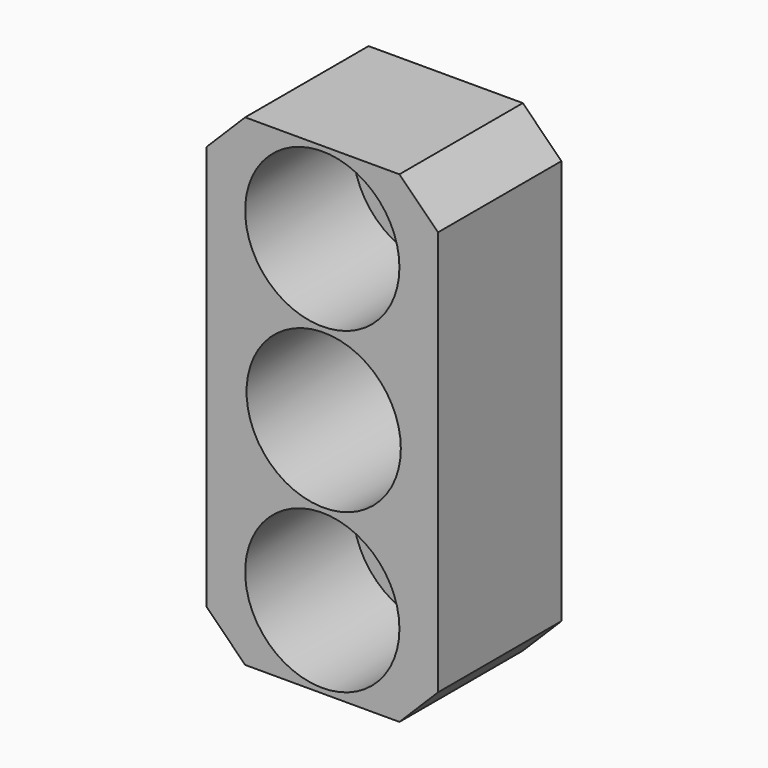
from build123d import *

# Parameters (mm, degrees)
F0_W     = 12
F0_H     = 25
F1_DEPTH = 8
F2_SIZE  = 2
F3_SIZE  = 2
F4_R     = 2.25
F5_DEPTH = 25
F6_R     = 4
F7_DEPTH = 7
F8_R     = 4
F9_DEPTH = 25


with BuildPart() as f1:
    # F0 (on Front) → F1 (new body)
    with BuildSketch(Plane.XZ):
        with Locations((1.81407, 3.270565)):
            Rectangle(F0_W, F0_H)
    extrude(amount=F1_DEPTH)

    # F2
    f2_edges = [f1.edges().sort_by_distance(p)[0] for p in [
        (-4.18593, -4, 15.770565),
    ]]
    chamfer(f2_edges, length=F2_SIZE)

    # F3
    f3_edges = [f1.edges().sort_by_distance(p)[0] for p in [
        (7.81407, -4, 15.770565),
        (7.81407, -4, -9.229435),
        (-4.18593, -4, -9.229435),
    ]]
    chamfer(f3_edges, length=F3_SIZE)

    # F4 (on face) → F5 (cut)
    with BuildSketch(Plane.XZ.offset(8)):
        with Locations((1.81407, -4.979435)):
            Circle(F4_R)
        with Locations((1.81407, 11.520565)):
            Circle(F4_R)
    extrude(amount=-F5_DEPTH, mode=Mode.SUBTRACT)

    # F6 (on face) → F7 (cut)
    with BuildSketch(Plane.XZ.offset(8)):
        with Locations((1.81407, 11.520565)):
            Circle(F6_R)
        with Locations((1.81407, -4.979435)):
            Circle(F6_R)
    extrude(amount=-F7_DEPTH, mode=Mode.SUBTRACT)

    # F8 (on Front) → F9 (cut)
    with BuildSketch(Plane.XZ):
        with Locations((1.887019, 3.270565)):
            Circle(F8_R)
    extrude(amount=F9_DEPTH, mode=Mode.SUBTRACT)


solid = f1.part
